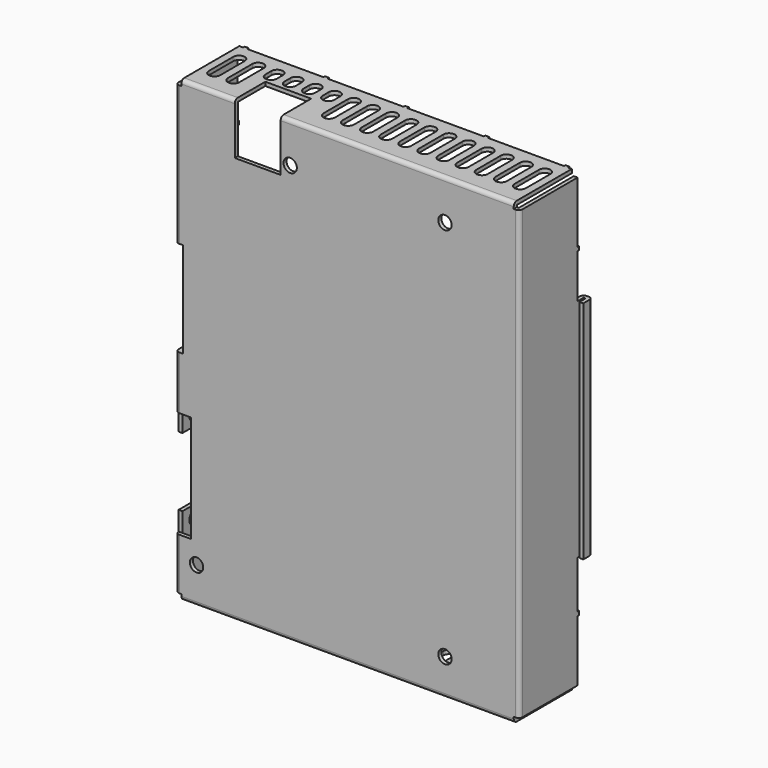
from build123d import *

# Parameters (mm, degrees)
F0_W      = 90
F0_H      = 120
F1_DEPTH  = 1
F2_W      = 87
F2_H      = 1
F2_W_2    = 1
F2_H_2    = 117
F3_DEPTH  = 18
F4_W      = 1.5
F4_H      = 1.5
F5_DEPTH  = 1.001
F7_DEPTH  = 120.001
F8_W      = 1
F8_H      = 1
F9_DEPTH  = 0.5
F10_R     = 1
F11_W     = 9
F11_H     = 18
F11_H_2   = 25
F11_R     = 4
F11_R_2   = 1.75
F12_DEPTH = 1
F13_W     = 1.5
F13_H     = 25
F13_W_2   = 1
F13_H_2   = 18
F14_DEPTH = 2
F15_R     = 1.75
F16_DEPTH = 19.501
F17_W     = 3
F17_H     = 59
F18_DEPTH = 1
F19_W     = 12
F19_H     = 13.5
F20_DEPTH = 10
F21_W     = 4
F21_H     = 28
F22_DEPTH = 1
F23_W     = 1
F23_H     = 59
F24_DEPTH = 0.5
F25_W     = 3
F25_H     = 59
F26_DEPTH = 1
F27_R     = 1
F29_DEPTH = 1


with BuildPart() as f1:
    # F0 (on Front) → F1 (new body)
    with BuildSketch(Plane.XZ):
        Rectangle(F0_W, F0_H)
    extrude(amount=-F1_DEPTH)

    # F2 (on face) → F3 (join)
    with BuildSketch(Plane(origin=(0, 1, 0), x_dir=(-1, 0, 0), z_dir=(0, 1, 0))):
        with Locations((0, 59.5)):
            Rectangle(F2_W, F2_H)
        with Locations((-44.5, 0)):
            Rectangle(F2_W_2, F2_H_2)
        with Locations((44.5, 0)):
            Rectangle(F2_W_2, F2_H_2)
        with Locations((0, -59.5)):
            Rectangle(F2_W, F2_H)
    extrude(amount=F3_DEPTH)

    # F4 (on face) → F5 (cut, through all)
    with BuildSketch(Plane(origin=(0, 1, 0), x_dir=(-1, 0, 0), z_dir=(0, 1, 0))):
        with Locations((44.25, 59.25)):
            Rectangle(F4_W, F4_H)
        with Locations((-44.25, 59.25)):
            Rectangle(F4_W, F4_H)
        with Locations((44.25, -59.25)):
            Rectangle(F4_W, F4_H)
        with Locations((-44.25, -59.25)):
            Rectangle(F4_W, F4_H)
    extrude(amount=-F5_DEPTH, mode=Mode.SUBTRACT)

    # F6 (on face) → F7 (cut, through all)
    with BuildSketch(Plane.XY.offset(60)):
        with BuildLine():
            ThreePointArc((-1.5, 6.5), (0, 5), (1.5, 6.5))
            Line((1.5, 6.5), (1.5, 14.5))
            ThreePointArc((1.5, 14.5), (0, 16), (-1.5, 14.5))
            Line((-1.5, 14.5), (-1.5, 6.5))
        make_face()
        with BuildLine():
            ThreePointArc((-6.5, 6.5), (-5, 5), (-3.5, 6.5))
            Line((-3.5, 6.5), (-3.5, 14.5))
            ThreePointArc((-3.5, 14.5), (-5, 16), (-6.5, 14.5))
            Line((-6.5, 14.5), (-6.5, 6.5))
        make_face()
        with BuildLine():
            ThreePointArc((-11.5, 6.5), (-10, 5), (-8.5, 6.5))
            Line((-8.5, 6.5), (-8.5, 14.5))
            ThreePointArc((-8.5, 14.5), (-10, 16), (-11.5, 14.5))
            Line((-11.5, 14.5), (-11.5, 6.5))
        make_face()
        with BuildLine():
            ThreePointArc((-16.5, 12.5), (-15, 11), (-13.5, 12.5))
            Line((-13.5, 12.5), (-13.5, 14.5))
            ThreePointArc((-13.5, 14.5), (-15, 16), (-16.5, 14.5))
            Line((-16.5, 14.5), (-16.5, 12.5))
        make_face()
        with BuildLine():
            ThreePointArc((8.5, 6.5), (10, 5), (11.5, 6.5))
            Line((11.5, 6.5), (11.5, 14.5))
            ThreePointArc((11.5, 14.5), (10, 16), (8.5, 14.5))
            Line((8.5, 14.5), (8.5, 6.5))
        make_face()
        with BuildLine():
            ThreePointArc((3.5, 6.5), (5, 5), (6.5, 6.5))
            Line((6.5, 6.5), (6.5, 14.5))
            ThreePointArc((6.5, 14.5), (5, 16), (3.5, 14.5))
            Line((3.5, 14.5), (3.5, 6.5))
        make_face()
        with BuildLine():
            ThreePointArc((13.5, 6.5), (15, 5), (16.5, 6.5))
            Line((16.5, 6.5), (16.5, 14.5))
            ThreePointArc((16.5, 14.5), (15, 16), (13.5, 14.5))
            Line((13.5, 14.5), (13.5, 6.5))
        make_face()
        with BuildLine():
            ThreePointArc((-21.5, 12.5), (-20, 11), (-18.5, 12.5))
            Line((-18.5, 12.5), (-18.5, 14.5))
            ThreePointArc((-18.5, 14.5), (-20, 16), (-21.5, 14.5))
            Line((-21.5, 14.5), (-21.5, 12.5))
        make_face()
        with BuildLine():
            ThreePointArc((-26.5, 12.5), (-25, 11), (-23.5, 12.5))
            Line((-23.5, 12.5), (-23.5, 14.5))
            ThreePointArc((-23.5, 14.5), (-25, 16), (-26.5, 14.5))
            Line((-26.5, 14.5), (-26.5, 12.5))
        make_face()
        with BuildLine():
            ThreePointArc((-31.5, 12.5), (-30, 11), (-28.5, 12.5))
            Line((-28.5, 12.5), (-28.5, 14.5))
            ThreePointArc((-28.5, 14.5), (-30, 16), (-31.5, 14.5))
            Line((-31.5, 14.5), (-31.5, 12.5))
        make_face()
        with BuildLine():
            ThreePointArc((-36.5, 6.5), (-35, 5), (-33.5, 6.5))
            Line((-33.5, 6.5), (-33.5, 14.5))
            ThreePointArc((-33.5, 14.5), (-35, 16), (-36.5, 14.5))
            Line((-36.5, 14.5), (-36.5, 6.5))
        make_face()
        with BuildLine():
            ThreePointArc((33.5, 6.5), (35, 5), (36.5, 6.5))
            Line((36.5, 6.5), (36.5, 14.5))
            ThreePointArc((36.5, 14.5), (35, 16), (33.5, 14.5))
            Line((33.5, 14.5), (33.5, 6.5))
        make_face()
        with BuildLine():
            ThreePointArc((28.5, 6.5), (30, 5), (31.5, 6.5))
            Line((31.5, 6.5), (31.5, 14.5))
            ThreePointArc((31.5, 14.5), (30, 16), (28.5, 14.5))
            Line((28.5, 14.5), (28.5, 6.5))
        make_face()
        with BuildLine():
            ThreePointArc((23.5, 6.5), (25, 5), (26.5, 6.5))
            Line((26.5, 6.5), (26.5, 14.5))
            ThreePointArc((26.5, 14.5), (25, 16), (23.5, 14.5))
            Line((23.5, 14.5), (23.5, 6.5))
        make_face()
        with BuildLine():
            ThreePointArc((18.5, 6.5), (20, 5), (21.5, 6.5))
            Line((21.5, 6.5), (21.5, 14.5))
            ThreePointArc((21.5, 14.5), (20, 16), (18.5, 14.5))
            Line((18.5, 14.5), (18.5, 6.5))
        make_face()
        with BuildLine():
            ThreePointArc((-41.5, 6.5), (-40, 5), (-38.5, 6.5))
            Line((-38.5, 6.5), (-38.5, 14.5))
            ThreePointArc((-38.5, 14.5), (-40, 16), (-41.5, 14.5))
            Line((-41.5, 14.5), (-41.5, 6.5))
        make_face()
        with BuildLine():
            ThreePointArc((38.5, 6.5), (40, 5), (41.5, 6.5))
            Line((41.5, 6.5), (41.5, 14.5))
            ThreePointArc((41.5, 14.5), (40, 16), (38.5, 14.5))
            Line((38.5, 14.5), (38.5, 6.5))
        make_face()
    extrude(amount=-F7_DEPTH, mode=Mode.SUBTRACT)

    # F8 (on face) → F9 (join)
    with BuildSketch(Plane(origin=(0, 19, 0), x_dir=(-1, 0, 0), z_dir=(0, 1, 0))):
        with Locations((0, -59.5)):
            Rectangle(F8_W, F8_H)
        with Locations((0, 59.5)):
            Rectangle(F8_W, F8_H)
        with Locations((44.5, 21)):
            Rectangle(F8_W, F8_H)
        with Locations((44.5, -21)):
            Rectangle(F8_W, F8_H)
        with Locations((44.5, 0)):
            Rectangle(F8_W, F8_H)
        with Locations((44.5, -42)):
            Rectangle(F8_W, F8_H)
        with Locations((21, -59.5)):
            Rectangle(F8_W, F8_H)
        with Locations((-21, 59.5)):
            Rectangle(F8_W, F8_H)
        with Locations((21, 59.5)):
            Rectangle(F8_W, F8_H)
        with Locations((42, 59.5)):
            Rectangle(F8_W, F8_H)
        with Locations((-42, 59.5)):
            Rectangle(F8_W, F8_H)
        with Locations((42, -59.5)):
            Rectangle(F8_W, F8_H)
        with Locations((-21, -59.5)):
            Rectangle(F8_W, F8_H)
        with Locations((-42, -59.5)):
            Rectangle(F8_W, F8_H)
        with Locations((44.5, 42)):
            Rectangle(F8_W, F8_H)
        with Locations((-44.5, -42)):
            Rectangle(F8_W, F8_H)
        with Locations((-44.5, 42)):
            Rectangle(F8_W, F8_H)
    extrude(amount=F9_DEPTH)

    # F10
    f10_edges = [f1.edges().sort_by_distance(p)[0] for p in [
        (-45, 0, 0),
        (0, 0, 60),
        (45, 0, 0),
        (0, 0, -60),
    ]]
    fillet(f10_edges, radius=F10_R)

    # F11 (on face) → F12 (cut)
    with BuildSketch(Plane(origin=(-45, 0, 0), x_dir=(0, -1, 0), z_dir=(-1, 0, 0))):
        with Locations((-5, -31)):
            Rectangle(F11_W, F11_H)
        with Locations((-6, 9.5)):
            Rectangle(F11_W, F11_H_2)
        with Locations((-6, 46.5)):
            Circle(F11_R)
        with Locations((-6, 25.5)):
            Circle(F11_R_2)
        with Locations((-6, -6.5)):
            Circle(F11_R_2)
        with Locations((-5, -19)):
            Circle(F11_R_2)
        with Locations((-5, -43)):
            Circle(F11_R_2)
    extrude(amount=-F12_DEPTH, mode=Mode.SUBTRACT)

    # F13 (on face) → F14 (cut)
    with BuildSketch(Plane(origin=(-45, 0, 0), x_dir=(0, -1, 0), z_dir=(-1, 0, 0))):
        with Locations((-0.75, 9.5)):
            Rectangle(F13_W, F13_H)
        with Locations((-0.5, -31)):
            Rectangle(F13_W_2, F13_H_2)
    extrude(amount=-F14_DEPTH, mode=Mode.SUBTRACT)

    # F15 (on face) → F16 (cut, through all)
    with BuildSketch(Plane.XZ):
        with Locations((-39.5, -50.5)):
            Circle(F15_R)
        with Locations((25.5, -50.5)):
            Circle(F15_R)
        with Locations((25.5, 49.5)):
            Circle(F15_R)
        with Locations((-15, 49.5)):
            Circle(F15_R)
    extrude(amount=-F16_DEPTH, mode=Mode.SUBTRACT)

    # F17 (on face) → F18 (join)
    with BuildSketch(Plane.YZ.offset(45)):
        with Locations((20.5, 0.5)):
            Rectangle(F17_W, F17_H)
    extrude(amount=-F18_DEPTH)

    # F19 (on face) → F20 (cut)
    with BuildSketch(Plane.XZ):
        with Locations((-23.5, 53.25)):
            Rectangle(F19_W, F19_H)
    extrude(amount=-F20_DEPTH, mode=Mode.SUBTRACT)

    # F21 (on face) → F22 (cut)
    with BuildSketch(Plane.XZ):
        with Locations((-43, -31)):
            Rectangle(F21_W, F21_H)
    extrude(amount=-F22_DEPTH, mode=Mode.SUBTRACT)

    # F23 (on face) → F24 (join)
    with BuildSketch(Plane.YZ.offset(45)):
        with Locations((21.5, 0.5)):
            Rectangle(F23_W, F23_H)
    extrude(amount=F24_DEPTH)

    # F25 (on face) → F26 (join)
    with BuildSketch(Plane.YZ.offset(45.5)):
        with Locations((20.5, 0.5)):
            Rectangle(F25_W, F25_H)
    extrude(amount=F26_DEPTH)

    # F27
    f27_edges = [f1.edges().sort_by_distance(p)[0] for p in [
        (46.5, 22, 0.5),
        (44, 22, 0.5),
    ]]
    fillet(f27_edges, radius=F27_R)

    # F28 (on face) → F29 (cut)
    with BuildSketch(Plane(origin=(0, 0, -60), x_dir=(1, 0, 0), z_dir=(0, 0, -1))):
        with BuildLine():
            Line((-28.5, -12.5), (-28.5, -6.5))
            ThreePointArc((-28.5, -6.5), (-30, -5), (-31.5, -6.5))
            Line((-31.5, -6.5), (-31.5, -12.5))
            Line((-31.5, -12.5), (-28.5, -12.5))
        make_face()
        with BuildLine():
            Line((-23.5, -12.5), (-23.5, -6.5))
            ThreePointArc((-23.5, -6.5), (-25, -5), (-26.5, -6.5))
            Line((-26.5, -6.5), (-26.5, -12.5))
            Line((-26.5, -12.5), (-23.5, -12.5))
        make_face()
        with BuildLine():
            Line((-18.5, -12.5), (-18.5, -6.5))
            ThreePointArc((-18.5, -6.5), (-20, -5), (-21.5, -6.5))
            Line((-21.5, -6.5), (-21.5, -12.5))
            Line((-21.5, -12.5), (-18.5, -12.5))
        make_face()
        with BuildLine():
            Line((-13.5, -12.5), (-13.5, -6.5))
            ThreePointArc((-13.5, -6.5), (-15, -5), (-16.5, -6.5))
            Line((-16.5, -6.5), (-16.5, -12.5))
            Line((-16.5, -12.5), (-13.5, -12.5))
        make_face()
    extrude(amount=-F29_DEPTH, mode=Mode.SUBTRACT)


solid = f1.part
